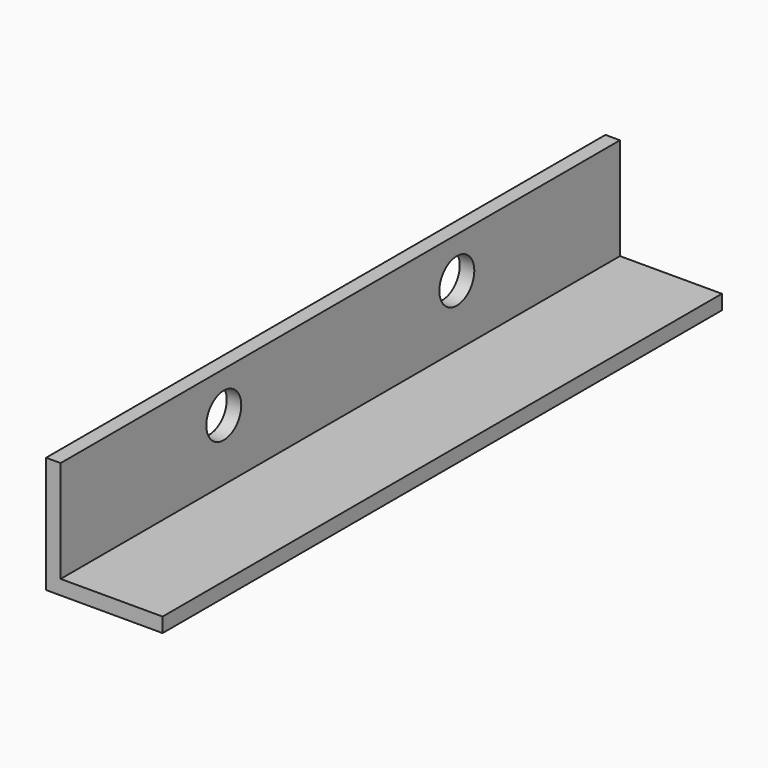
from build123d import *

# Parameters (mm, degrees)
F1_DEPTH = 152.4
F3_D     = 9.525


with BuildPart() as f1:
    # F0 (on Front) → F1 (new body)
    with BuildSketch(Plane.XZ):
        Polygon((3.175, 25.4), (0, 25.4), (0, 0), (25.4, 0), (25.4, 3.175), (3.175, 3.175), align=None)
    extrude(amount=F1_DEPTH)

    # F3 (through all)
    with Locations(Plane(origin=(0, 0, 0), x_dir=(0, -1, 0), z_dir=(-1, 0, 0))):
        with Locations((44.45, 16.497891), (107.95, 16.497891)):
            Hole(F3_D / 2)


solid = f1.part
